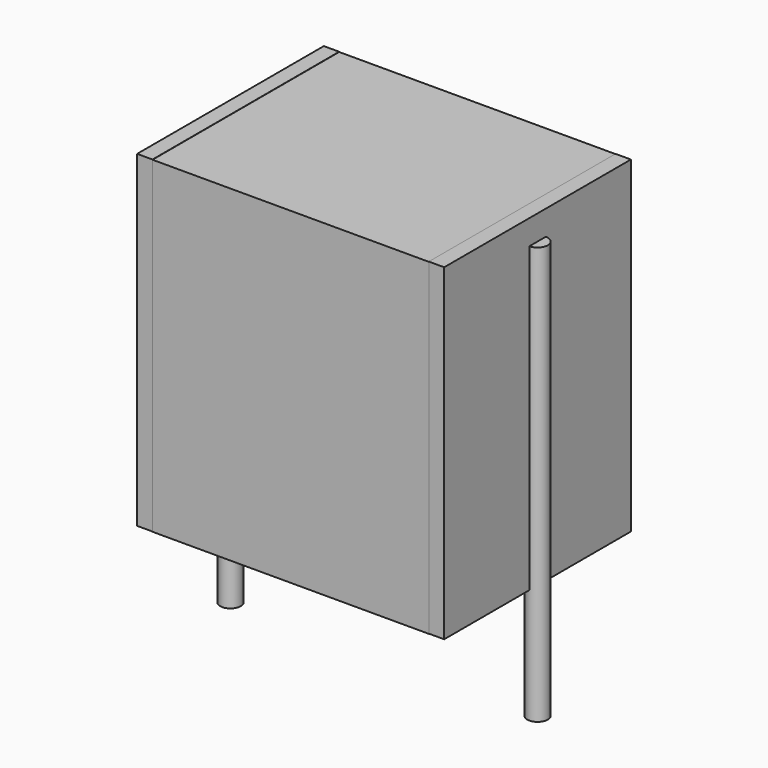
from build123d import *

# Parameters (mm, degrees)
SKETCH_W          = 6.75
SKETCH_H          = 5.7
PAD_DEPTH         = 8
SKETCH001_R       = 0.25
PAD001_DEPTH      = 7
PAD001_DEPTH_BACK = 3.2
SKETCH002_W       = 0.375
SKETCH002_H       = 5.7
PAD002_DEPTH      = 8


with BuildPart() as pad:
    # Sketch → Pad (new body)
    with BuildSketch(Plane.XY.offset(0.1)):
        with Locations((3.75, 0)):
            Rectangle(SKETCH_W, SKETCH_H)
    extrude(amount=PAD_DEPTH)


with BuildPart() as pad001:
    # Sketch001 → Pad001 (new body, two sides)
    with BuildSketch(Plane.XY.offset(0.5)) as pad001_sk:
        Circle(SKETCH001_R)
        with Locations((7.5, 0)):
            Circle(SKETCH001_R)
    extrude(amount=PAD001_DEPTH)
    extrude(pad001_sk.sketch, amount=-PAD001_DEPTH_BACK)


with BuildPart() as pad002:
    # Sketch002 → Pad002 (new body)
    with BuildSketch(Plane.XY.offset(0.105)):
        with Locations((0.1875, 0)):
            Rectangle(SKETCH002_W, SKETCH002_H)
        with Locations((7.3125, 0)):
            Rectangle(SKETCH002_W, SKETCH002_H)
    extrude(amount=PAD002_DEPTH)


solid = Compound([pad.part, pad001.part, pad002.part])
